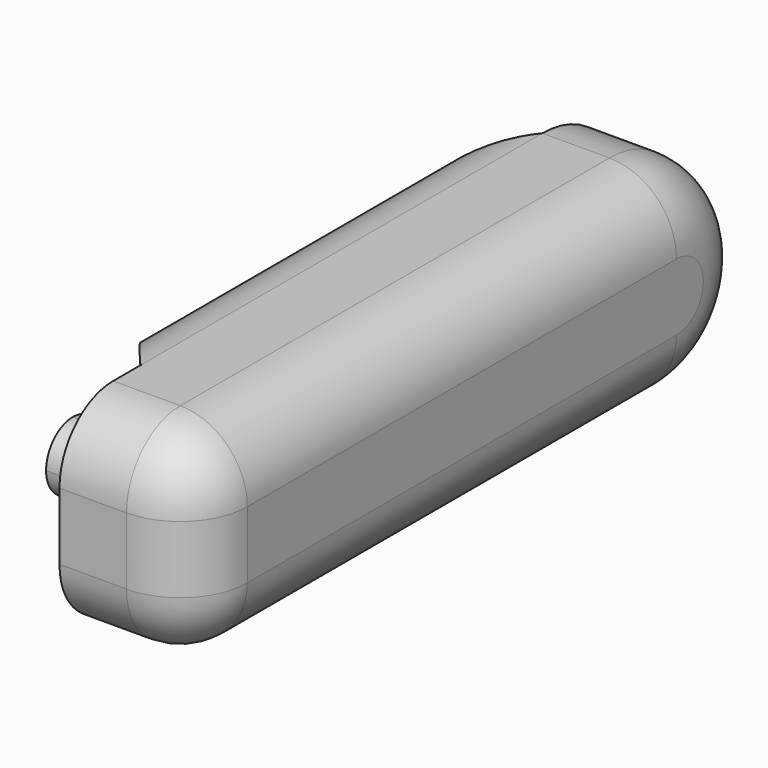
from build123d import *

# Parameters (mm, degrees)
F1_DEPTH = 38.1
F2_R     = 12.7
F4_DEPTH = 12.7


with BuildPart() as f1:
    # F0 (on Right) → F1 (new body)
    with BuildSketch(Plane.YZ):
        with BuildLine():
            ThreePointArc((0, 12.7), (3.7197438789, 3.7197438789), (12.7, 0))
            Line((12.7, 0), (88.9, 0))
            Line((88.9, 0), (114.3, 0))
            ThreePointArc((114.3, 0), (133.35, 19.05), (114.3, 38.1))
            Line((114.3, 38.1), (88.9, 38.1))
            Line((88.9, 38.1), (12.7, 38.1))
            ThreePointArc((12.7, 38.1), (3.7197438789, 34.3802561211), (0, 25.4))
            Line((0, 25.4), (0, 12.7))
        make_face()
    extrude(amount=F1_DEPTH)

    # F2
    f2_edges = [f1.edges().sort_by_distance(p)[0] for p in [
        (38.1, 0, 19.05),
        (38.1, 3.719744, 3.719744),
        (38.1, 63.5, 0),
        (38.1, 133.35, 19.05),
        (38.1, 63.5, 38.1),
        (38.1, 3.719744, 34.380256),
        (0, 0, 19.05),
        (0, 3.719744, 3.719744),
        (0, 63.5, 0),
        (0, 133.35, 19.05),
        (0, 63.5, 38.1),
        (0, 3.719744, 34.380256),
    ]]
    fillet(f2_edges, radius=F2_R)

    # F3 (on face) → F4 (cut)
    with BuildSketch(Plane(origin=(0, 0, 0), x_dir=(0, -1, 0), z_dir=(-1, 0, 0))):
        with BuildLine():
            ThreePointArc((-114.3, 25.4), (-109.8098719395, 23.5401280605), (-107.95, 19.05))
            ThreePointArc((-107.95, 19.05), (-109.8098719395, 14.5598719395), (-114.3, 12.7))
            Line((-114.3, 12.7), (-96.3394877579, 12.7))
            ThreePointArc((-96.3394877579, 12.7), (-95.5243474386, 15.8286073053), (-95.25, 19.05))
            ThreePointArc((-95.25, 19.05), (-95.5243474386, 22.2713926947), (-96.3394877579, 25.4))
            Line((-96.3394877579, 25.4), (-114.3, 25.4))
        make_face()
        with BuildLine():
            ThreePointArc((-114.3, 12.7), (-120.65, 19.05), (-114.3, 25.4))
            Line((-114.3, 25.4), (-96.3394877579, 25.4))
            ThreePointArc((-96.3394877579, 25.4), (-133.35, 19.05), (-96.3394877579, 12.7))
            Line((-96.3394877579, 12.7), (-114.3, 12.7))
        make_face()
        with BuildLine():
            Line((-19.05, 25.4), (-37.0105122421, 25.4))
            ThreePointArc((-37.0105122421, 25.4), (-38.1, 19.05), (-37.0105122421, 12.7))
            Line((-37.0105122421, 12.7), (-19.0500000394, 12.7))
            ThreePointArc((-19.0500000394, 12.7), (-25.4, 19.0500000197), (-19.05, 25.4))
        make_face()
        with BuildLine():
            ThreePointArc((-19.3726803674, 38.0972669268), (-30.1798665694, 34.5105488307), (-37.0105122421, 25.4))
            Line((-37.0105122421, 25.4), (-19.05, 25.4))
            Line((-19.05, 25.4), (-12.7, 25.4))
            Line((-12.7, 25.4), (-12.7, 19.05))
            Line((-12.7, 19.05), (-12.7, 12.7))
            Line((-12.7, 12.7), (-19.0500000394, 12.7))
            Line((-19.0500000394, 12.7), (-37.0105122421, 12.7))
            ThreePointArc((-37.0105122421, 12.7), (-30.0485226281, 3.4957401333), (-19.05, 0))
            Line((-19.05, 0), (-15.2826001868, -14.698324725))
            Line((-15.2826001868, -14.698324725), (7.5956550427, -14.698324725))
            Line((7.5956550427, -14.698324725), (22.0383554697, 45.6287078559))
            Line((22.0383554697, 45.6287078559), (-15.4104121029, 51.7636574805))
            Line((-15.4104121029, 51.7636574805), (-19.3726803674, 38.0972669268))
        make_face()
        with BuildLine():
            Line((-12.7, 25.4), (-19.05, 25.4))
            ThreePointArc((-19.05, 25.4), (-14.5598719395, 23.5401280605), (-12.7, 19.05))
            Line((-12.7, 19.05), (-12.7, 25.4))
        make_face()
        with BuildLine():
            ThreePointArc((-12.7, 19.05), (-14.5598719534, 14.5598719255), (-19.0500000394, 12.7))
            Line((-19.0500000394, 12.7), (-12.7, 12.7))
            Line((-12.7, 12.7), (-12.7, 19.05))
        make_face()
    extrude(amount=-F4_DEPTH, mode=Mode.SUBTRACT)


solid = f1.part
